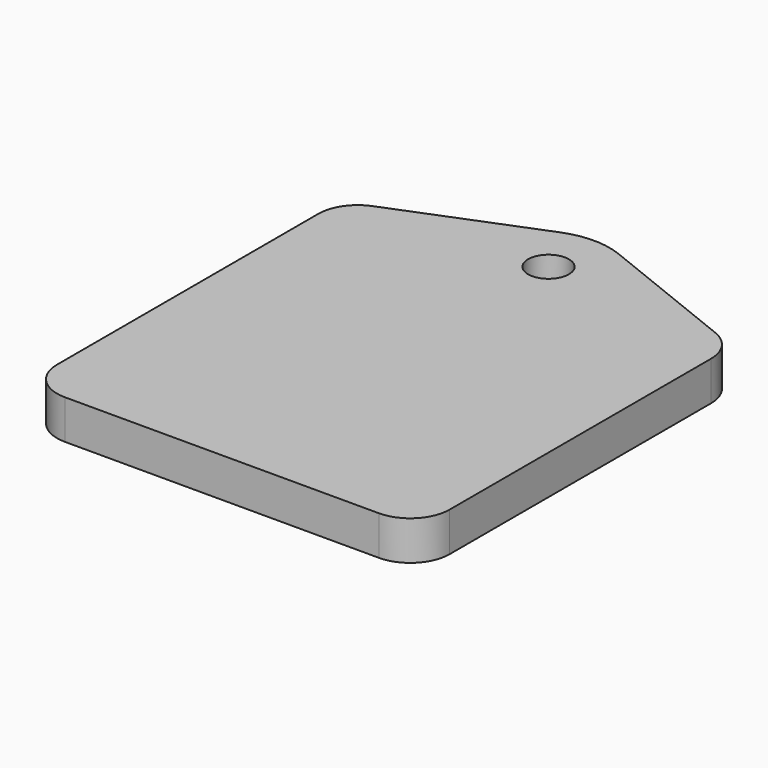
from build123d import *

# Parameters (mm, degrees)
F0_R     = 1.651
F1_DEPTH = 3.175


with BuildPart() as f1:
    # F0 (on Top) → F1 (new body)
    with BuildSketch(Plane.XY):
        with BuildLine():
            ThreePointArc((-15.875, 3.175), (-14.945064, 0.929936), (-12.7, 0))
            Line((-12.7, 0), (12.7, 0))
            ThreePointArc((12.7, 0), (14.945064, 0.929936), (15.875, 3.175))
            Line((15.875, 3.175), (15.875, 29.60042))
            ThreePointArc((15.875, 29.60042), (15.329113, 31.380417), (13.879165, 32.548334))
            Line((13.879165, 32.548334), (2.358331, 37.156668))
            ThreePointArc((2.358331, 37.156668), (0, 37.610841), (-2.358331, 37.156668))
            Line((-2.358331, 37.156668), (-13.879165, 32.548334))
            ThreePointArc((-13.879165, 32.548334), (-15.329113, 31.380417), (-15.875, 29.60042))
            Line((-15.875, 29.60042), (-15.875, 3.175))
        make_face()
        with Locations((0, 33.02)):
            Circle(F0_R, mode=Mode.SUBTRACT)
    extrude(amount=F1_DEPTH)


solid = f1.part
